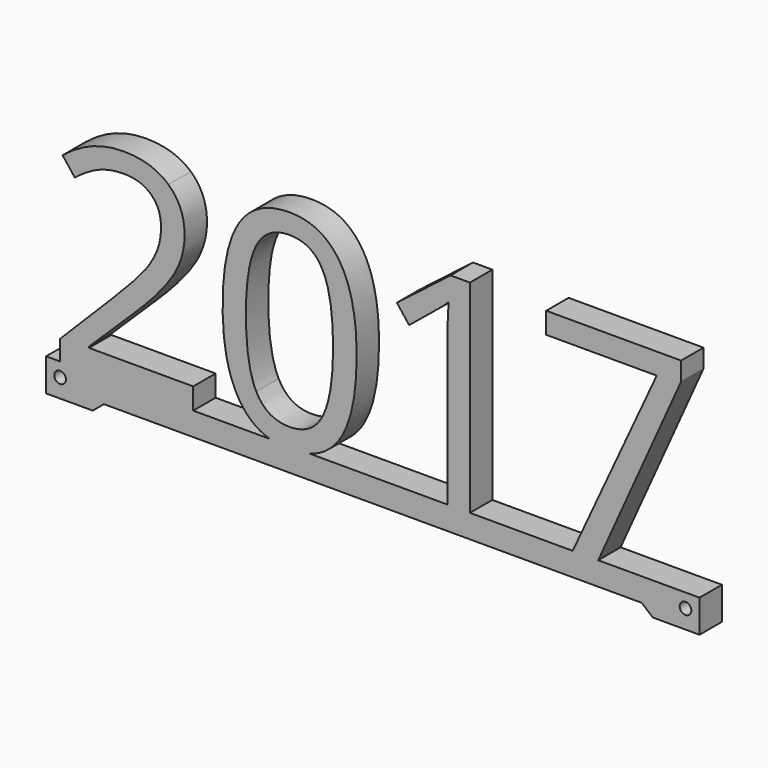
from build123d import *

# Parameters (mm, degrees)
F1_DEPTH = 6
F2_D     = 2.5


with BuildPart() as f1:
    # F0 (on Front) → F1 (new body)
    with BuildSketch(Plane.XZ):
        with BuildLine():
            Line((-91.7150999423, 0.1053942247), (-94.6907891994, 0.1053942247))
            Line((-94.6907891994, 0.1053942247), (-94.6907891994, -6.8946057753))
            Line((-94.6907891994, -6.8946057753), (-84.6907891994, -6.8946057753))
            Line((-84.6907891994, -6.8946057753), (-82.3072820142, -4.8946057753))
            Line((-82.3072820142, -4.8946057753), (32.9257036154, -4.8946057753))
            Line((32.9257036154, -4.8946057753), (35.3092108006, -6.8946057753))
            Line((35.3092108006, -6.8946057753), (45.3092108006, -6.8946057753))
            Line((45.3092108006, -6.8946057753), (45.3092108006, 0.1053942247))
            Line((45.3092108006, 0.1053942247), (23.6047425132, 0.1053942247))
            Line((23.6047425132, 0.1053942247), (18.138220715, 0.1053942247))
            Line((18.138220715, 0.1053942247), (-3.8799783886, 0.1053942247))
            Line((-3.8799783886, 0.1053942247), (-8.690517571, 0.1053942247))
            Line((-8.690517571, 0.1053942247), (-38.1593011314, 0.1053942247))
            add(Edge.make_bspline(
                [(-38.1593011314, 0.1053942247), (-40.154230825, -0.4935464245), (-42.5544317364, -0.4935464245)],
                knots=[0.6716946069, 0.6716946069, 0.6716946069, 1, 1, 1], degree=2))
            add(Edge.make_bspline(
                [(-42.5544317364, -0.4935464245), (-44.8276907657, -0.4935464245), (-46.7481902647, 0.1053942247)],
                knots=[0, 0, 0, 0.3244428423, 0.3244428423, 0.3244428423], degree=2))
            Line((-46.7481902647, 0.1053942247), (-63.1655956642, 0.1053942247))
            Line((-63.1655956642, 0.1053942247), (-91.7150999423, 0.1053942247))
        make_face()
        with BuildLine():
            add(Edge.make_bspline(
                [(-46.7481902647, 0.1053942247), (-50.7470677679, 1.3525126379), (-53.2165259915, 5.1963897429)],
                knots=[0.3244428423, 0.3244428423, 0.3244428423, 1, 1, 1], degree=2))
            Line((-46.7481902647, 0.1053942247), (-38.1593011314, 0.1053942247))
            add(Edge.make_bspline(
                [(-31.6926905983, 5.0632918208), (-34.0777857358, 1.33079354), (-38.1593011314, 0.1053942247)],
                knots=[0, 0, 0, 0.6716946069, 0.6716946069, 0.6716946069], degree=2))
            add(Edge.make_bspline(
                [(-28.1418281781, 21.8859184676), (-28.1418281781, 10.6201300661), (-31.6926905983, 5.0632918208)],
                knots=[0, 0, 0, 1, 1, 1], degree=2))
            add(Edge.make_bspline(
                [(-31.8115280287, 38.4898842424), (-28.1418281781, 32.7524131029), (-28.1418281781, 21.8859184676)],
                knots=[0, 0, 0, 1, 1, 1], degree=2))
            add(Edge.make_bspline(
                [(-42.5544317364, 44.2273553819), (-35.4812278793, 44.2273553819), (-31.8115280287, 38.4898842424)],
                knots=[0, 0, 0, 1, 1, 1], degree=2))
            add(Edge.make_bspline(
                [(-53.3353634219, 38.7275591032), (-49.7987614933, 44.2273553819), (-42.5544317364, 44.2273553819)],
                knots=[0, 0, 0, 1, 1, 1], degree=2))
            add(Edge.make_bspline(
                [(-56.8719653504, 21.8859184676), (-56.8719653504, 33.2277628245), (-53.3353634219, 38.7275591032)],
                knots=[0, 0, 0, 1, 1, 1], degree=2))
            add(Edge.make_bspline(
                [(-53.2165259915, 5.1963897429), (-56.8719653504, 10.8863259102), (-56.8719653504, 21.8859184676)],
                knots=[0, 0, 0, 1, 1, 1], degree=2))
        make_face()
        with BuildLine():
            add(Edge.make_bspline(
                [(-51.8807932738, 21.8859184676), (-51.8807932738, 12.4074450192), (-49.6514030796, 8.0817625529)],
                knots=[0, 0, 0, 1, 1, 1], degree=2))
            add(Edge.make_bspline(
                [(-49.6514030796, 35.6567999018), (-51.8807932738, 31.3643919159), (-51.8807932738, 21.8859184676)],
                knots=[0, 0, 0, 1, 1, 1], degree=2))
            add(Edge.make_bspline(
                [(-42.5544317364, 39.9492078876), (-47.4220128854, 39.9492078876), (-49.6514030796, 35.6567999018)],
                knots=[0, 0, 0, 1, 1, 1], degree=2))
            add(Edge.make_bspline(
                [(-35.4099254211, 35.595004438), (-37.6203016264, 39.9492078876), (-42.5544317364, 39.9492078876)],
                knots=[0, 0, 0, 1, 1, 1], degree=2))
            add(Edge.make_bspline(
                [(-33.1995492157, 21.8859184676), (-33.1995492157, 31.2408009883), (-35.4099254211, 35.595004438)],
                knots=[0, 0, 0, 1, 1, 1], degree=2))
            add(Edge.make_bspline(
                [(-35.4099254211, 8.1388045194), (-33.1995492157, 12.5215289524), (-33.1995492157, 21.8859184676)],
                knots=[0, 0, 0, 1, 1, 1], degree=2))
            add(Edge.make_bspline(
                [(-42.5544317364, 3.7560800865), (-37.6203016264, 3.7560800865), (-35.4099254211, 8.1388045194)],
                knots=[0, 0, 0, 1, 1, 1], degree=2))
            add(Edge.make_bspline(
                [(-49.6514030796, 8.0817625529), (-47.4220128854, 3.7560800865), (-42.5544317364, 3.7560800865)],
                knots=[0, 0, 0, 1, 1, 1], degree=2))
        make_face(mode=Mode.SUBTRACT)
        with BuildLine():
            Line((-91.7150999423, 4.3550207357), (-91.7150999423, 0.1053942247))
            Line((-91.7150999423, 0.1053942247), (-63.1655956642, 0.1053942247))
            Line((-63.1655956642, 0.1053942247), (-63.1655956642, 4.6782585463))
            Line((-63.1655956642, 4.6782585463), (-85.5070325785, 4.6782585463))
            Line((-85.5070325785, 4.6782585463), (-85.5070325785, 4.9159334071))
            Line((-85.5070325785, 4.9159334071), (-76.0000381468, 14.2137739612))
            add(Edge.make_bspline(
                [(-67.3296592252, 24.4337929752), (-69.6493658665, 20.3933203418), (-76.0000381468, 14.2137739612)],
                knots=[0, 0, 0, 1, 1, 1], degree=2))
            add(Edge.make_bspline(
                [(-65.0099525839, 32.6098081864), (-65.0099525839, 28.4742656087), (-67.3296592252, 24.4337929752)],
                knots=[0, 0, 0, 1, 1, 1], degree=2))
            add(Edge.make_bspline(
                [(-68.4847590487, 41.0282517556), (-65.0099525839, 37.8956970904), (-65.0099525839, 32.6098081864)],
                knots=[0, 0, 0, 1, 1, 1], degree=2))
            add(Edge.make_bspline(
                [(-78.0820699274, 44.1608064208), (-71.9595655134, 44.1608064208), (-68.4847590487, 41.0282517556)],
                knots=[0, 0, 0, 1, 1, 1], degree=2))
            add(Edge.make_bspline(
                [(-91.1541872708, 39.1696343442), (-85.1552737845, 44.1608064208), (-78.0820699274, 44.1608064208)],
                knots=[0, 0, 0, 1, 1, 1], degree=2))
            Line((-91.1541872708, 39.1696343442), (-88.5397638022, 35.8136653099))
            add(Edge.make_bspline(
                [(-83.1492979594, 39.0555504111), (-85.5735815395, 38.1618929345), (-88.5397638022, 35.8136653099)],
                knots=[0, 0, 0, 1, 1, 1], degree=2))
            add(Edge.make_bspline(
                [(-78.0250279608, 39.9492078876), (-80.7250143794, 39.9492078876), (-83.1492979594, 39.0555504111)],
                knots=[0, 0, 0, 1, 1, 1], degree=2))
            add(Edge.make_bspline(
                [(-72.1687193909, 37.9147110793), (-74.2792721547, 39.9492078876), (-78.0250279608, 39.9492078876)],
                knots=[0, 0, 0, 1, 1, 1], degree=2))
            add(Edge.make_bspline(
                [(-70.0581666271, 32.4006543089), (-70.0581666271, 35.8802142709), (-72.1687193909, 37.9147110793)],
                knots=[0, 0, 0, 1, 1, 1], degree=2))
            add(Edge.make_bspline(
                [(-70.8900286399, 27.799269004), (-70.0581666271, 29.9383427511), (-70.0581666271, 32.4006543089)],
                knots=[0, 0, 0, 1, 1, 1], degree=2))
            add(Edge.make_bspline(
                [(-73.3856146782, 23.4022840794), (-71.7218906526, 25.6601952569), (-70.8900286399, 27.799269004)],
                knots=[0, 0, 0, 1, 1, 1], degree=2))
            add(Edge.make_bspline(
                [(-80.2781856411, 15.8489770035), (-75.0493387037, 21.1443729019), (-73.3856146782, 23.4022840794)],
                knots=[0, 0, 0, 1, 1, 1], degree=2))
            Line((-80.2781856411, 15.8489770035), (-91.7150999423, 4.3550207357))
        make_face()
        with BuildLine():
            Line((-8.690517571, 31.0601680941), (-8.690517571, 0.1053942247))
            Line((-8.690517571, 0.1053942247), (-3.8799783886, 0.1053942247))
            Line((-3.8799783886, 0.1053942247), (-3.8799783886, 43.5428517828))
            Line((-3.8799783886, 43.5428517828), (-8.0345349552, 43.5428517828))
            Line((-8.0345349552, 43.5428517828), (-19.528491223, 34.6538119892))
            Line((-19.528491223, 34.6538119892), (-16.9140677543, 31.2693219716))
            add(Edge.make_bspline(
                [(-9.8456173944, 37.0638350776), (-10.6204374406, 36.3840849758), (-16.9140677543, 31.2693219716)],
                knots=[0, 0, 0, 1, 1, 1], degree=2))
            add(Edge.make_bspline(
                [(-8.4528427102, 38.371046812), (-9.0707973483, 37.7435851795), (-9.8456173944, 37.0638350776)],
                knots=[0, 0, 0, 1, 1, 1], degree=2))
            add(Edge.make_bspline(
                [(-8.690517571, 31.0601680941), (-8.690517571, 34.9295148277), (-8.4528427102, 38.371046812)],
                knots=[0, 0, 0, 1, 1, 1], degree=2))
        make_face()
        Polygon((36.1349611741, 38.9985084445), (18.138220715, 0.1053942247), (23.6047425132, 0.1053942247), (41.3638081115, 39.5879420992), (41.3638081115, 43.5428517828), (12.4625450394, 43.5428517828), (12.4625450394, 38.9985084445), align=None)
        with BuildLine():
            Line((-38.1593011314, 0.1053942247), (-46.7481902647, 0.1053942247))
            add(Edge.make_bspline(
                [(-42.5544317364, -0.4935464245), (-44.8276907657, -0.4935464245), (-46.7481902647, 0.1053942247)],
                knots=[0, 0, 0, 0.3244428423, 0.3244428423, 0.3244428423], degree=2))
            add(Edge.make_bspline(
                [(-38.1593011314, 0.1053942247), (-40.154230825, -0.4935464245), (-42.5544317364, -0.4935464245)],
                knots=[0.6716946069, 0.6716946069, 0.6716946069, 1, 1, 1], degree=2))
        make_face()
    extrude(amount=F1_DEPTH)

    # F2 (through all)
    with Locations(Plane(origin=(0, 0, 0), x_dir=(1, 0, 0), z_dir=(0, 1, 0))):
        with Locations((-91.6907891994, 2.8946057753), (42.3092108006, 2.8946057753)):
            Hole(F2_D / 2)


solid = f1.part
